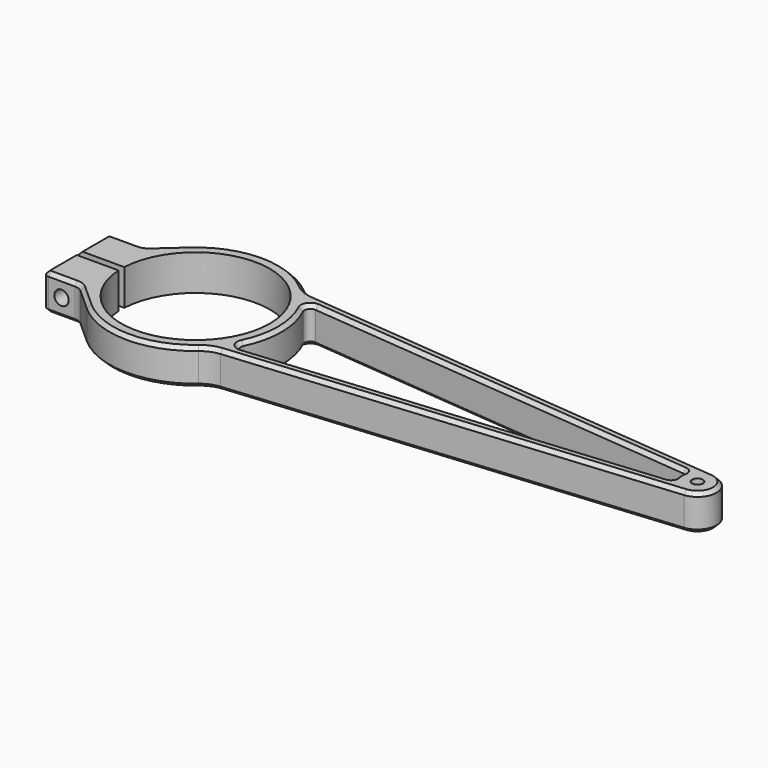
from build123d import *

# Parameters (mm, degrees)
SKETCH_R     = 2.25
PAD_DEPTH    = 15
SKETCH001_R  = 3
HOLE_DEPTH   = 53.001
FILLET_R     = 5
FILLET001_R  = 2
FILLET002_R  = 12.5
FILLET003_R  = 2.5
FILLET004_R  = 1.5
CHAMFER_SIZE = 1.5


with BuildPart() as part:
    # Sketch → Pad (new body)
    with BuildSketch(Plane.XY):
        with BuildLine():
            ThreePointArc((-31.038776, -1.5), (31.075, 0), (-31.038776, 1.5))
            Line((-50, 1.5), (-31.038776, 1.5))
            Line((-50, 17), (-50, 1.5))
            Line((-35, 17), (-50, 17))
            Line((-35, 17), (-23.992027, 26.839945))
            ThreePointArc((25.903668, 25), (1.326628, 35.975548), (-23.992027, 26.839945))
            Line((25.903668, 25), (210.734184, 7.96624))
            ThreePointArc((210.734184, -7.96624), (218, 0), (210.734184, 7.96624))
            Line((25.903668, -25), (210.734184, -7.96624))
            ThreePointArc((-23.992027, -26.839945), (1.326628, -35.975548), (25.903668, -25))
            Line((-23.992027, -26.839945), (-35, -17))
            Line((-35, -17), (-50, -17))
            Line((-50, -1.5), (-50, -17))
            Line((-50, -1.5), (-31.038776, -1.5))
        make_face()
        with Locations((210, 0)):
            Circle(SKETCH_R, mode=Mode.SUBTRACT)
        with BuildLine():
            ThreePointArc((202.890406, 3.667925), (202, 0), (202.890406, -3.667925))
            Line((202.890406, -3.667925), (30.208298, -19.582102))
            ThreePointArc((30.208298, -19.582102), (36, 0), (30.208298, 19.582102))
            Line((30.208298, 19.582102), (202.890406, 3.667925))
        make_face(mode=Mode.SUBTRACT)
    extrude(amount=PAD_DEPTH)

    # Sketch001 (on Face13 of Pad) → Hole (cut, through all)
    with BuildSketch(Plane.XZ.offset(17)):
        with Locations((-42.5, 7.5)):
            Circle(SKETCH001_R)
    extrude(amount=-HOLE_DEPTH, mode=Mode.SUBTRACT)

    # Fillet
    fillet_edges = [part.edges().sort_by_distance(p)[0] for p in [
        (-35, -17, 7.5),
        (-35, 17, 7.5),
    ]]
    fillet(fillet_edges, radius=FILLET_R)

    # Fillet001
    fillet001_edges = [part.edges().sort_by_distance(p)[0] for p in [
        (-50, 17, 7.5),
        (-50, -17, 7.5),
    ]]
    fillet(fillet001_edges, radius=FILLET001_R)

    # Fillet002
    fillet002_edges = [part.edges().sort_by_distance(p)[0] for p in [
        (25.903668, -25, 7.5),
        (25.903668, 25, 7.5),
    ]]
    fillet(fillet002_edges, radius=FILLET002_R)

    # Fillet003
    fillet003_edges = [part.edges().sort_by_distance(p)[0] for p in [
        (30.208298, -19.582102, 7.5),
        (30.208298, 19.582102, 7.5),
    ]]
    fillet(fillet003_edges, radius=FILLET003_R)

    # Fillet004
    fillet004_edges = [part.edges().sort_by_distance(p)[0] for p in [
        (202.890406, 3.667925, 7.5),
        (202.890406, -3.667925, 7.5),
    ]]
    fillet(fillet004_edges, radius=FILLET004_R)

    # Chamfer
    chamfer_edges = [part.edges().sort_by_distance(p)[0] for p in [
        (120.438497, 16.287783, 15),
        (120.438497, 16.287783, 0),
        (117.936912, 11.497137, 15),
        (117.936912, 11.497137, 0),
    ]]
    chamfer(chamfer_edges, length=CHAMFER_SIZE)


solid = part.part
